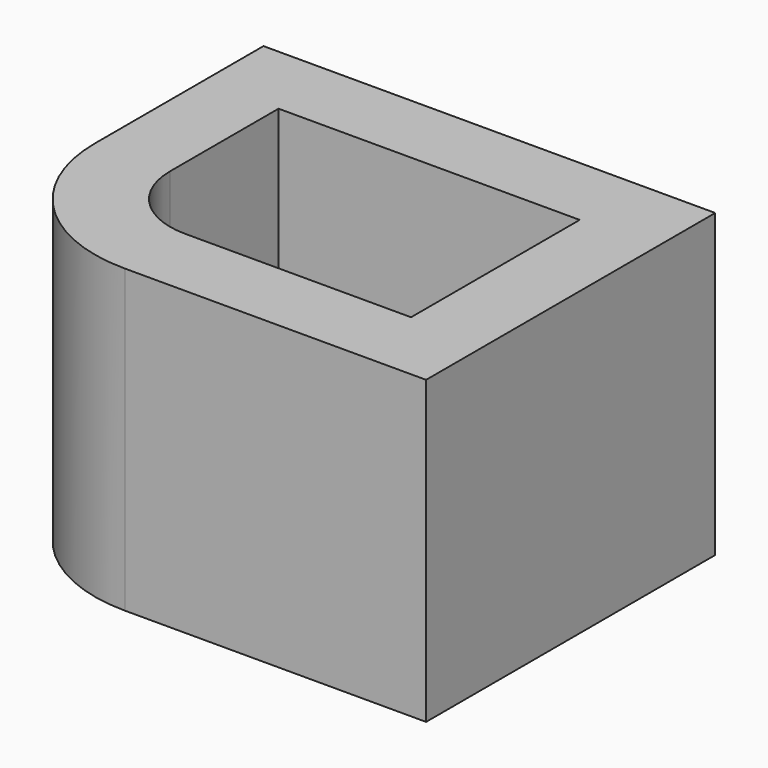
from build123d import *

# Parameters (mm, degrees)
F0_W     = 30
F0_H     = 20
F1_DEPTH = 24
F2_R     = 10
F3_T     = -5


with BuildPart() as f1:
    # F0 (on Front) → F1 (new body)
    with BuildSketch(Plane.XZ):
        with Locations((15, 10)):
            Rectangle(F0_W, F0_H)
    extrude(amount=F1_DEPTH)

    # F2
    f2_edges = [f1.edges().sort_by_distance(p)[0] for p in [
        (0, -24, 10),
    ]]
    fillet(f2_edges, radius=F2_R)

    # F3
    f3_openings = [f1.faces().sort_by_distance(p)[0] for p in [
        (15.3922, -11.699964, 20),
    ]]
    offset(amount=F3_T, openings=f3_openings)


solid = f1.part
